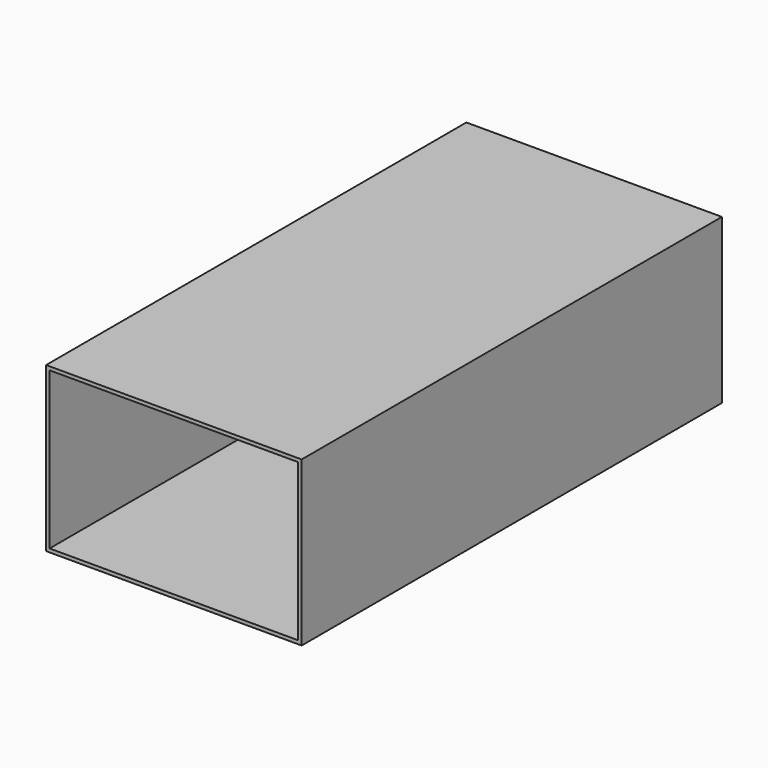
from build123d import *

# Parameters (mm, degrees)
F0_W     = 185.360161
F0_H     = 118.818706
F1_DEPTH = 190.5
F2_T     = -2.54


with BuildPart() as f1:
    # F0 (on Front) → F1 (new body, symmetric)
    with BuildSketch(Plane.XZ):
        with Locations((8.163339, -38.931881)):
            Rectangle(F0_W, F0_H)
    extrude(amount=F1_DEPTH, both=True)

    # F2
    f2_openings = [f1.faces().sort_by_distance(p)[0] for p in [
        (8.163339, -190.5, -38.931881),
    ]]
    offset(amount=F2_T, openings=f2_openings)


solid = f1.part
